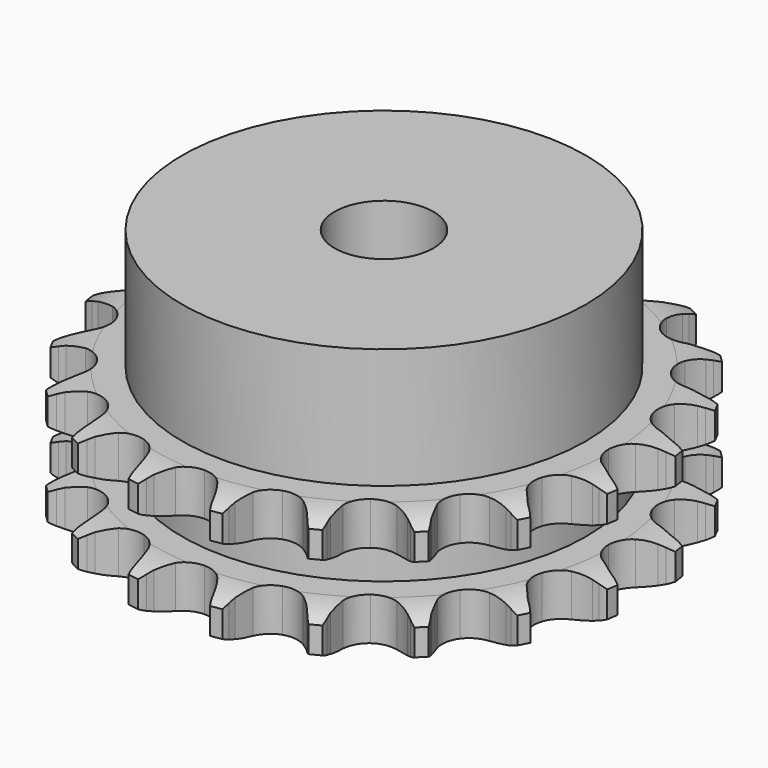
from build123d import *

# Parameters (mm, degrees)
PAD_DEPTH         = 15.4
SKETCH001_R       = 24.5
PAD001_DEPTH      = 30
SKETCH002_R       = 6
POCKET_DEPTH      = 0.001
POCKET_DEPTH_BACK = 30.001


with BuildPart() as part:
    # Sprocket → Pad (new body)
    with BuildSketch(Plane.XY):
        with BuildLine():
            ThreePointArc((-5.205483, 32.866126), (-4.489771, 32.037905), (-3.962254, 31.078781))
            Line((-3.962254, 31.078781), (-3.656643, 30.351761))
            ThreePointArc((-3.656643, 30.351761), (-3.16351, 29.366997), (-2.544467, 28.456103))
            ThreePointArc((-2.544467, 28.456103), (-1.415489, 27.541875), (0, 27.215083))
            ThreePointArc((0, 27.215083), (1.415489, 27.541875), (2.544467, 28.456103))
            ThreePointArc((2.544467, 28.456103), (3.16351, 29.366997), (3.656643, 30.351761))
            Line((3.656643, 30.351761), (3.962254, 31.078781))
            ThreePointArc((3.962254, 31.078781), (4.489771, 32.037905), (5.205483, 32.866126))
            ThreePointArc((5.205483, 32.866126), (5.630231, 31.857274), (5.835544, 30.782081))
            Line((5.835544, 30.782081), (5.901536, 29.996205))
            ThreePointArc((5.901536, 29.996205), (6.066224, 28.907252), (6.373487, 27.849646))
            ThreePointArc((6.373487, 27.849646), (7.164697, 26.63129), (8.409923, 25.883082))
            ThreePointArc((8.409923, 25.883082), (9.857118, 25.756469), (11.213351, 26.277079))
            Line((11.213351, 26.277079), (12.856884, 27.736276))
            ThreePointArc((12.856884, 27.736276), (13.107455, 28.040892), (13.372199, 28.333273))
            ThreePointArc((13.372199, 28.333273), (14.170283, 29.082443), (15.1069, 29.648961))
            ThreePointArc((15.1069, 29.648961), (15.199107, 28.558231), (15.062118, 27.472216))
            Line((15.062118, 27.472216), (14.882031, 26.704412))
            ThreePointArc((14.882031, 26.704412), (14.702154, 25.617864), (14.667561, 24.517071))
            ThreePointArc((14.667561, 24.517071), (15.043553, 23.113849), (15.996625, 22.017465))
            ThreePointArc((15.996625, 22.017465), (17.333863, 21.449841), (18.784595, 21.525871))
            Line((18.784595, 21.525871), (20.798604, 22.40577))
            ThreePointArc((20.798604, 22.40577), (21.131042, 22.618046), (21.47318, 22.814307))
            ThreePointArc((21.47318, 22.814307), (22.463709, 23.280189), (23.529548, 23.529548))
            ThreePointArc((23.529548, 23.529548), (23.280189, 22.463709), (22.814307, 21.47318))
            Line((22.814307, 21.47318), (22.40577, 20.798604))
            ThreePointArc((22.40577, 20.798604), (21.898935, 19.820821), (21.525871, 18.784595))
            ThreePointArc((21.525871, 18.784595), (21.449841, 17.333863), (22.017465, 15.996625))
            ThreePointArc((22.017465, 15.996625), (23.113849, 15.043553), (24.517071, 14.667561))
            Line((24.517071, 14.667561), (26.704412, 14.882031))
            ThreePointArc((26.704412, 14.882031), (27.086176, 14.981189), (27.472216, 15.062118))
            ThreePointArc((27.472216, 15.062118), (28.558231, 15.199107), (29.648961, 15.1069))
            ThreePointArc((29.648961, 15.1069), (29.082443, 14.170283), (28.333273, 13.372199))
            Line((28.333273, 13.372199), (27.736276, 12.856884))
            ThreePointArc((27.736276, 12.856884), (26.952095, 12.083578), (26.277079, 11.213351))
            ThreePointArc((26.277079, 11.213351), (25.756469, 9.857118), (25.883082, 8.409923))
            ThreePointArc((25.883082, 8.409923), (26.63129, 7.164697), (27.849646, 6.373487))
            Line((27.849646, 6.373487), (29.996205, 5.901536))
            ThreePointArc((29.996205, 5.901536), (30.389927, 5.877869), (30.782081, 5.835544))
            ThreePointArc((30.782081, 5.835544), (31.857274, 5.630231), (32.866126, 5.205483))
            ThreePointArc((32.866126, 5.205483), (32.037905, 4.489771), (31.078781, 3.962254))
            Line((31.078781, 3.962254), (30.351761, 3.656643))
            ThreePointArc((30.351761, 3.656643), (29.366997, 3.16351), (28.456103, 2.544467))
            ThreePointArc((28.456103, 2.544467), (27.541875, 1.415489), (27.215083, 0))
            ThreePointArc((27.215083, 0), (27.541875, -1.415489), (28.456103, -2.544467))
            Line((28.456103, -2.544467), (30.351761, -3.656643))
            ThreePointArc((30.351761, -3.656643), (30.718899, -3.800818), (31.078781, -3.962254))
            ThreePointArc((31.078781, -3.962254), (32.037905, -4.489771), (32.866126, -5.205483))
            ThreePointArc((32.866126, -5.205483), (31.857274, -5.630231), (30.782081, -5.835544))
            Line((30.782081, -5.835544), (29.996205, -5.901536))
            ThreePointArc((29.996205, -5.901536), (28.907252, -6.066224), (27.849646, -6.373487))
            ThreePointArc((27.849646, -6.373487), (26.63129, -7.164697), (25.883082, -8.409923))
            ThreePointArc((25.883082, -8.409923), (25.756469, -9.857118), (26.277079, -11.213351))
            Line((26.277079, -11.213351), (27.736276, -12.856884))
            ThreePointArc((27.736276, -12.856884), (28.040892, -13.107455), (28.333273, -13.372199))
            ThreePointArc((28.333273, -13.372199), (29.082443, -14.170283), (29.648961, -15.1069))
            ThreePointArc((29.648961, -15.1069), (28.558231, -15.199107), (27.472216, -15.062118))
            Line((27.472216, -15.062118), (26.704412, -14.882031))
            ThreePointArc((26.704412, -14.882031), (25.617864, -14.702154), (24.517071, -14.667561))
            ThreePointArc((24.517071, -14.667561), (23.113849, -15.043553), (22.017465, -15.996625))
            ThreePointArc((22.017465, -15.996625), (21.449841, -17.333863), (21.525871, -18.784595))
            Line((21.525871, -18.784595), (22.40577, -20.798604))
            ThreePointArc((22.40577, -20.798604), (22.618046, -21.131042), (22.814307, -21.47318))
            ThreePointArc((22.814307, -21.47318), (23.280189, -22.463709), (23.529548, -23.529548))
            ThreePointArc((23.529548, -23.529548), (22.463709, -23.280189), (21.47318, -22.814307))
            Line((21.47318, -22.814307), (20.798604, -22.40577))
            ThreePointArc((20.798604, -22.40577), (19.820821, -21.898935), (18.784595, -21.525871))
            ThreePointArc((18.784595, -21.525871), (17.333863, -21.449841), (15.996625, -22.017465))
            ThreePointArc((15.996625, -22.017465), (15.043553, -23.113849), (14.667561, -24.517071))
            Line((14.667561, -24.517071), (14.882031, -26.704412))
            ThreePointArc((14.882031, -26.704412), (14.981189, -27.086176), (15.062118, -27.472216))
            ThreePointArc((15.062118, -27.472216), (15.199107, -28.558231), (15.1069, -29.648961))
            ThreePointArc((15.1069, -29.648961), (14.170283, -29.082443), (13.372199, -28.333273))
            Line((13.372199, -28.333273), (12.856884, -27.736276))
            ThreePointArc((12.856884, -27.736276), (12.083578, -26.952095), (11.213351, -26.277079))
            ThreePointArc((11.213351, -26.277079), (9.857118, -25.756469), (8.409923, -25.883082))
            ThreePointArc((8.409923, -25.883082), (7.164697, -26.63129), (6.373487, -27.849646))
            Line((6.373487, -27.849646), (5.901536, -29.996205))
            ThreePointArc((5.901536, -29.996205), (5.877869, -30.389927), (5.835544, -30.782081))
            ThreePointArc((5.835544, -30.782081), (5.630231, -31.857274), (5.205483, -32.866126))
            ThreePointArc((5.205483, -32.866126), (4.489771, -32.037905), (3.962254, -31.078781))
            Line((3.962254, -31.078781), (3.656643, -30.351761))
            ThreePointArc((3.656643, -30.351761), (3.16351, -29.366997), (2.544467, -28.456103))
            ThreePointArc((2.544467, -28.456103), (1.415489, -27.541875), (0, -27.215083))
            ThreePointArc((0, -27.215083), (-1.415489, -27.541875), (-2.544467, -28.456103))
            Line((-2.544467, -28.456103), (-3.656643, -30.351761))
            ThreePointArc((-3.656643, -30.351761), (-3.800818, -30.718899), (-3.962254, -31.078781))
            ThreePointArc((-3.962254, -31.078781), (-4.489771, -32.037905), (-5.205483, -32.866126))
            ThreePointArc((-5.205483, -32.866126), (-5.630231, -31.857274), (-5.835544, -30.782081))
            Line((-5.835544, -30.782081), (-5.901536, -29.996205))
            ThreePointArc((-5.901536, -29.996205), (-6.066224, -28.907252), (-6.373487, -27.849646))
            ThreePointArc((-6.373487, -27.849646), (-7.164697, -26.63129), (-8.409923, -25.883082))
            ThreePointArc((-8.409923, -25.883082), (-9.857118, -25.756469), (-11.213351, -26.277079))
            Line((-11.213351, -26.277079), (-12.856884, -27.736276))
            ThreePointArc((-12.856884, -27.736276), (-13.107455, -28.040892), (-13.372199, -28.333273))
            ThreePointArc((-13.372199, -28.333273), (-14.170283, -29.082443), (-15.1069, -29.648961))
            ThreePointArc((-15.1069, -29.648961), (-15.199107, -28.558231), (-15.062118, -27.472216))
            Line((-15.062118, -27.472216), (-14.882031, -26.704412))
            ThreePointArc((-14.882031, -26.704412), (-14.702154, -25.617864), (-14.667561, -24.517071))
            ThreePointArc((-14.667561, -24.517071), (-15.043553, -23.113849), (-15.996625, -22.017465))
            ThreePointArc((-15.996625, -22.017465), (-17.333863, -21.449841), (-18.784595, -21.525871))
            Line((-18.784595, -21.525871), (-20.798604, -22.40577))
            ThreePointArc((-20.798604, -22.40577), (-21.131042, -22.618046), (-21.47318, -22.814307))
            ThreePointArc((-21.47318, -22.814307), (-22.463709, -23.280189), (-23.529548, -23.529548))
            ThreePointArc((-23.529548, -23.529548), (-23.280189, -22.463709), (-22.814307, -21.47318))
            Line((-22.814307, -21.47318), (-22.40577, -20.798604))
            ThreePointArc((-22.40577, -20.798604), (-21.898935, -19.820821), (-21.525871, -18.784595))
            ThreePointArc((-21.525871, -18.784595), (-21.449841, -17.333863), (-22.017465, -15.996625))
            ThreePointArc((-22.017465, -15.996625), (-23.113849, -15.043553), (-24.517071, -14.667561))
            Line((-24.517071, -14.667561), (-26.704412, -14.882031))
            ThreePointArc((-26.704412, -14.882031), (-27.086176, -14.981189), (-27.472216, -15.062118))
            ThreePointArc((-27.472216, -15.062118), (-28.558231, -15.199107), (-29.648961, -15.1069))
            ThreePointArc((-29.648961, -15.1069), (-29.082443, -14.170283), (-28.333273, -13.372199))
            Line((-28.333273, -13.372199), (-27.736276, -12.856884))
            ThreePointArc((-27.736276, -12.856884), (-26.952095, -12.083578), (-26.277079, -11.213351))
            ThreePointArc((-26.277079, -11.213351), (-25.756469, -9.857118), (-25.883082, -8.409923))
            ThreePointArc((-25.883082, -8.409923), (-26.63129, -7.164697), (-27.849646, -6.373487))
            Line((-27.849646, -6.373487), (-29.996205, -5.901536))
            ThreePointArc((-29.996205, -5.901536), (-30.389927, -5.877869), (-30.782081, -5.835544))
            ThreePointArc((-30.782081, -5.835544), (-31.857274, -5.630231), (-32.866126, -5.205483))
            ThreePointArc((-32.866126, -5.205483), (-32.037905, -4.489771), (-31.078781, -3.962254))
            Line((-31.078781, -3.962254), (-30.351761, -3.656643))
            ThreePointArc((-30.351761, -3.656643), (-29.366997, -3.16351), (-28.456103, -2.544467))
            ThreePointArc((-28.456103, -2.544467), (-27.541875, -1.415489), (-27.215083, 0))
            ThreePointArc((-27.215083, 0), (-27.541875, 1.415489), (-28.456103, 2.544467))
            Line((-28.456103, 2.544467), (-30.351761, 3.656643))
            ThreePointArc((-30.351761, 3.656643), (-30.718899, 3.800818), (-31.078781, 3.962254))
            ThreePointArc((-31.078781, 3.962254), (-32.037905, 4.489771), (-32.866126, 5.205483))
            ThreePointArc((-32.866126, 5.205483), (-31.857274, 5.630231), (-30.782081, 5.835544))
            Line((-30.782081, 5.835544), (-29.996205, 5.901536))
            ThreePointArc((-29.996205, 5.901536), (-28.907252, 6.066224), (-27.849646, 6.373487))
            ThreePointArc((-27.849646, 6.373487), (-26.63129, 7.164697), (-25.883082, 8.409923))
            ThreePointArc((-25.883082, 8.409923), (-25.756469, 9.857118), (-26.277079, 11.213351))
            Line((-26.277079, 11.213351), (-27.736276, 12.856884))
            ThreePointArc((-27.736276, 12.856884), (-28.040892, 13.107455), (-28.333273, 13.372199))
            ThreePointArc((-28.333273, 13.372199), (-29.082443, 14.170283), (-29.648961, 15.1069))
            ThreePointArc((-29.648961, 15.1069), (-28.558231, 15.199107), (-27.472216, 15.062118))
            Line((-27.472216, 15.062118), (-26.704412, 14.882031))
            ThreePointArc((-26.704412, 14.882031), (-25.617864, 14.702154), (-24.517071, 14.667561))
            ThreePointArc((-24.517071, 14.667561), (-23.113849, 15.043553), (-22.017465, 15.996625))
            ThreePointArc((-22.017465, 15.996625), (-21.449841, 17.333863), (-21.525871, 18.784595))
            Line((-21.525871, 18.784595), (-22.40577, 20.798604))
            ThreePointArc((-22.40577, 20.798604), (-22.618046, 21.131042), (-22.814307, 21.47318))
            ThreePointArc((-22.814307, 21.47318), (-23.280189, 22.463709), (-23.529548, 23.529548))
            ThreePointArc((-23.529548, 23.529548), (-22.463709, 23.280189), (-21.47318, 22.814307))
            Line((-21.47318, 22.814307), (-20.798604, 22.40577))
            ThreePointArc((-20.798604, 22.40577), (-19.820821, 21.898935), (-18.784595, 21.525871))
            ThreePointArc((-18.784595, 21.525871), (-17.333863, 21.449841), (-15.996625, 22.017465))
            ThreePointArc((-15.996625, 22.017465), (-15.043553, 23.113849), (-14.667561, 24.517071))
            Line((-14.667561, 24.517071), (-14.882031, 26.704412))
            ThreePointArc((-14.882031, 26.704412), (-14.981189, 27.086176), (-15.062118, 27.472216))
            ThreePointArc((-15.062118, 27.472216), (-15.199107, 28.558231), (-15.1069, 29.648961))
            ThreePointArc((-15.1069, 29.648961), (-14.170283, 29.082443), (-13.372199, 28.333273))
            Line((-13.372199, 28.333273), (-12.856884, 27.736276))
            ThreePointArc((-12.856884, 27.736276), (-12.083578, 26.952095), (-11.213351, 26.277079))
            ThreePointArc((-11.213351, 26.277079), (-9.857118, 25.756469), (-8.409923, 25.883082))
            ThreePointArc((-8.409923, 25.883082), (-7.164697, 26.63129), (-6.373487, 27.849646))
            Line((-6.373487, 27.849646), (-5.901536, 29.996205))
            ThreePointArc((-5.901536, 29.996205), (-5.877869, 30.389927), (-5.835544, 30.782081))
            ThreePointArc((-5.835544, 30.782081), (-5.630231, 31.857274), (-5.205483, 32.866126))
        make_face()
    extrude(amount=PAD_DEPTH)

    # Sketch → Groove (revolve, cut)
    with BuildSketch(Plane.XZ):
        with BuildLine():
            ThreePointArc((27.791101, 0), (30.027169, 0.253206), (32.15, 1))
            Line((32.15, 1), (32.15, 4.2))
            ThreePointArc((32.15, 4.2), (30.027169, 4.946794), (27.791101, 5.2))
            Line((24.5, 5.2), (27.791101, 5.2))
            Line((24.5, 10.2), (24.5, 5.2))
            Line((27.791101, 10.2), (24.5, 10.2))
            ThreePointArc((27.791101, 10.2), (30.027169, 10.453206), (32.15, 11.2))
            Line((32.15, 11.2), (32.15, 14.4))
            ThreePointArc((32.15, 14.4), (30.027169, 15.146794), (27.791101, 15.4))
            Line((27.791101, 15.4), (37.791101, 15.4))
            Line((37.791101, 15.4), (37.791101, 0))
            Line((27.791101, 0), (37.791101, 0))
        make_face()
    revolve(axis=Axis((0, 0, 0), (0, 0, 1)), mode=Mode.SUBTRACT)

    # Sketch001 → Pad001 (join)
    with BuildSketch(Plane.XY):
        Circle(SKETCH001_R)
    extrude(amount=PAD001_DEPTH)

    # Sketch002 → Pocket (cut, two sides)
    with BuildSketch(Plane.XY) as pocket_sk:
        Circle(SKETCH002_R)
    extrude(amount=-POCKET_DEPTH, mode=Mode.SUBTRACT)
    extrude(pocket_sk.sketch, amount=POCKET_DEPTH_BACK, mode=Mode.SUBTRACT)


solid = part.part
